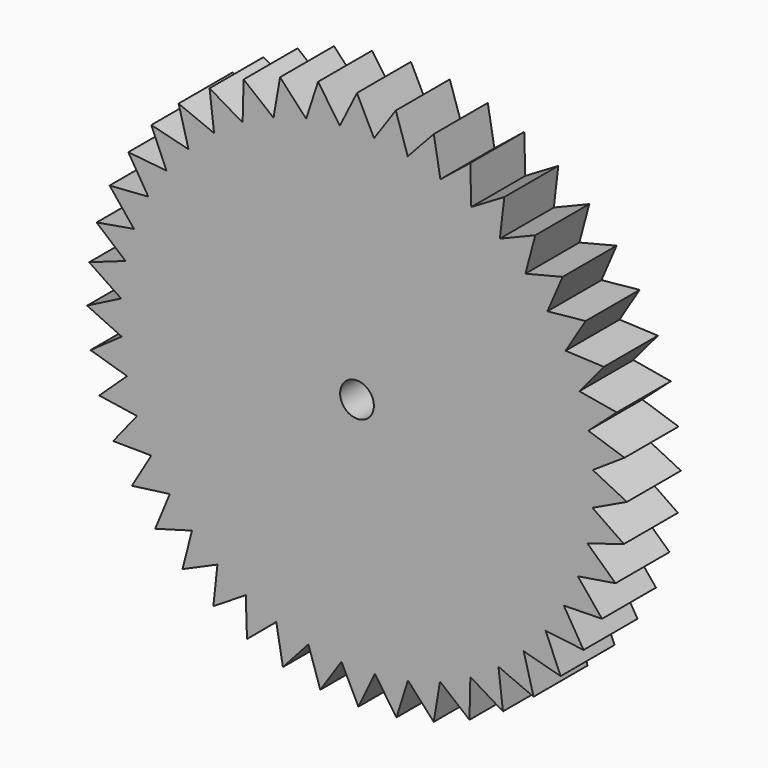
from build123d import *

# Parameters (mm, degrees)
F0_R     = 2.5
F1_DEPTH = 10


with BuildPart() as f1:
    # F0 (on Front) → F1 (new body)
    with BuildSketch(Plane.XZ):
        Polygon((2.523419, 34.908915), (0, 40), (-2.536541, 34.907964), (-5.767684, 39.581989), (-7.530638, 34.18025), (-11.400408, 38.340979), (-12.368155, 32.74185), (-16.796091, 36.302773), (-16.948511, 30.622671), (-21.842545, 33.509748), (-21.176467, 27.866777), (-26.434842, 30.019979), (-24.964116, 24.531468), (-30.477498, 25.906025), (-28.232704, 20.686093), (-33.886457, 21.253425), (-30.914268, 16.410607), (-36.658408, 16.005034), (-33.050996, 11.516582), (-38.580196, 10.5626), (-34.308045, 6.925175), (-39.684772, 5.011874), (-34.952549, 1.821893), (-39.993003, -0.748139), (-34.859956, -3.127857), (-39.487376, -6.383347), (-34.069918, -8.015029), (-38.191725, -11.890844), (-32.598243, -12.741843), (-36.13197, -17.160441), (-30.474374, -17.213731), (-33.349323, -22.086708), (-27.740803, -21.341224), (-29.899455, -26.571086), (-24.452222, -25.041742), (-25.851387, -30.523856), (-20.674425, -28.241249), (-21.286111, -33.865934), (-16.482993, -30.875734), (-16.294963, -36.530456), (-11.961787, -32.892486), (-10.977801, -38.464112), (-7.20126, -34.251158), (-5.441006, -39.628215), (-2.296658, -34.924567), (0.204647, -39.999476), (2.653894, -34.899238), (5.846206, -39.570467), (7.551349, -34.17568), (11.3708, -38.349771), (12.297724, -32.768369), (16.667898, -36.361809), (16.798058, -30.705459), (21.631521, -33.646357), (20.962313, -28.028225), (26.162361, -30.25774), (24.707175, -24.79023), (30.169771, -26.263757), (27.95772, -21.056256), (33.573573, -21.744314), (30.648913, -16.901009), (36.305668, -16.789832), (32.726914, -12.407623), (38.311395, -11.499435), (34.150146, -7.665998), (39.550625, -5.978969), (34.890136, -2.770998), (39.998564, -0.338882), (34.932078, 2.17944), (39.646252, 5.307986), (34.275132, 7.086275), (38.500736, 10.848656), (32.948618, 11.806293), (36.584761, 16.17267), (30.908097, 16.422226), (33.878465, 21.266161), (28.224926, 20.696704), (30.467758, 25.917479), (24.954893, 24.54085), (26.423556, 30.029913), (21.16599, 27.874735), (21.829947, 33.517956), (16.936998, 30.62904), (16.782444, 36.309084), (12.355847, 32.746497), (11.385994, 38.345262), (7.517789, 34.183078), (5.752804, 39.584154), align=None)
        Circle(F0_R, mode=Mode.SUBTRACT)
    extrude(amount=F1_DEPTH)


solid = f1.part
